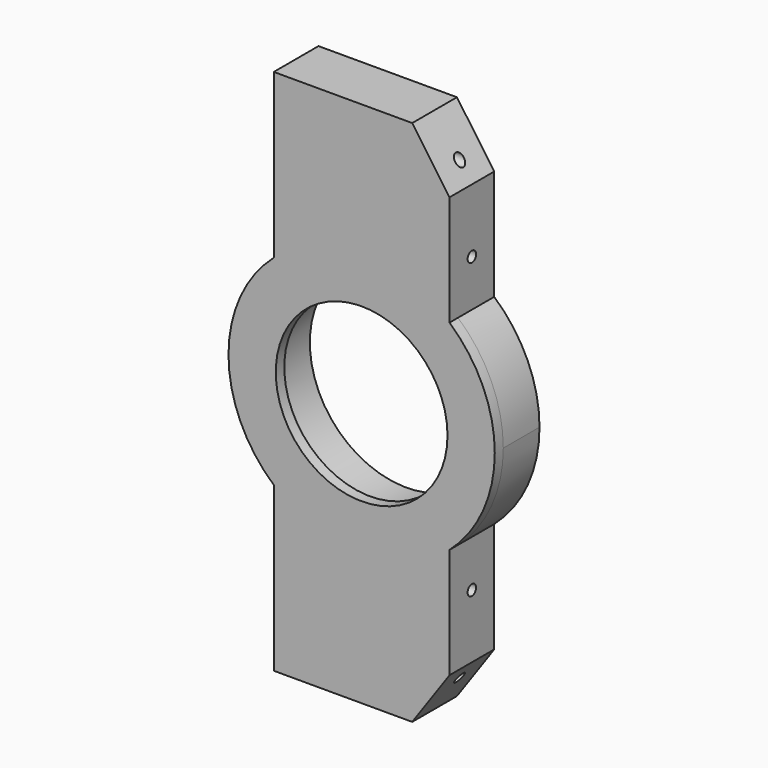
from build123d import *

# Parameters (mm, degrees)
F0_R      = 36.25
F1_DEPTH  = 17
F2_R      = 32.25
F3_DEPTH  = 4
F4_R      = 1.5
F5_DEPTH  = 15
F7_R      = 2
F8_DEPTH  = 25
F10_R     = 2
F11_DEPTH = 25
F13_DEPTH = 12


with BuildPart() as f1:
    # F0 (on Front) → F1 (new body)
    with BuildSketch(Plane.XZ):
        Circle(F0_R)
        with BuildLine():
            Line((-33, -99), (-18.995849, -99))
            Line((-18.995849, -99), (0, -99))
            Line((0, -99), (18.995849, -99))
            Line((18.995849, -99), (33, -79))
            Line((33, -79), (33, -37.56328))
            ThreePointArc((33, -37.56328), (45.552168, -20.615528), (50, 0))
            ThreePointArc((50, 0), (45.552168, 20.615528), (33, 37.56328))
            Line((33, 37.56328), (33, 79))
            Line((33, 79), (18.995849, 99))
            Line((18.995849, 99), (-18.995849, 99))
            Line((-18.995849, 99), (-33, 99))
            Line((-33, 99), (-33, 79))
            Line((-33, 79), (-33, 37.56328))
            ThreePointArc((-33, 37.56328), (-45.552168, 20.615528), (-50, 0))
            ThreePointArc((-50, 0), (-45.552168, -20.615528), (-33, -37.56328))
            Line((-33, -37.56328), (-33, -79))
            Line((-33, -79), (-33, -99))
        make_face()
        Circle(F0_R, mode=Mode.SUBTRACT)
    extrude(amount=F1_DEPTH)

    # F2 (on face) → F3 (join)
    with BuildSketch(Plane.XZ.offset(17)):
        with BuildLine():
            Line((33, -79), (33, -37.56328))
            ThreePointArc((33, -37.56328), (50, 0), (33, 37.56328))
            Line((33, 37.56328), (33, 79))
            Line((33, 79), (18.995849, 99))
            Line((18.995849, 99), (-33, 99))
            Line((-33, 99), (-33, 37.56328))
            ThreePointArc((-33, 37.56328), (-50, 0), (-33, -37.56328))
            Line((-33, -37.56328), (-33, -99))
            Line((-33, -99), (18.995849, -99))
            Line((18.995849, -99), (33, -79))
        make_face()
        Circle(F2_R, mode=Mode.SUBTRACT)
    extrude(amount=F3_DEPTH)

    # F4 (on face) → F5 (cut)
    with BuildSketch(Plane(origin=(0, 0, 0), x_dir=(-1, 0, 0), z_dir=(0, 1, 0))):
        with Locations((-18, -42.60355)):
            Circle(F4_R)
        with Locations((18, -42.60355)):
            Circle(F4_R)
        with Locations((18, -67.60355)):
            Circle(F4_R)
        with Locations((-18, -67.60355)):
            Circle(F4_R)
    extrude(amount=-F5_DEPTH, mode=Mode.SUBTRACT)

    # F7 (on offset) → F8 (cut)
    with BuildSketch(Plane.YZ.offset(21)):
        with BuildLine():
            ThreePointArc((-12.5, -85.60355), (-10.5, -87.60355), (-8.5, -85.60355))
            Line((-8.5, -85.60355), (-12.5, -85.60355))
        make_face()
        with BuildLine():
            Line((-12.5, -85.60355), (-8.5, -85.60355))
            ThreePointArc((-8.5, -85.60355), (-10.5, -83.60355), (-12.5, -85.60355))
        make_face()
        with BuildLine():
            ThreePointArc((-12.5, -55.10355), (-10.5, -57.10355), (-8.5, -55.10355))
            Line((-8.5, -55.10355), (-12.5, -55.10355))
        make_face()
        with BuildLine():
            Line((-12.5, -55.10355), (-8.5, -55.10355))
            ThreePointArc((-8.5, -55.10355), (-10.5, -53.10355), (-12.5, -55.10355))
        make_face()
        with Locations((-10.5, 55.10355)):
            Circle(F7_R)
        with Locations((-10.5, 85.60355)):
            Circle(F7_R)
    extrude(amount=F8_DEPTH, mode=Mode.SUBTRACT)

    # F10 (on offset) → F11 (cut)
    with BuildSketch(Plane.YZ.offset(-21)):
        with BuildLine():
            ThreePointArc((-12.5, -85.60355), (-10.5, -87.60355), (-8.5, -85.60355))
            Line((-8.5, -85.60355), (-12.5, -85.60355))
        make_face()
        with BuildLine():
            Line((-12.5, -85.60355), (-8.5, -85.60355))
            ThreePointArc((-8.5, -85.60355), (-10.5, -83.60355), (-12.5, -85.60355))
        make_face()
        with BuildLine():
            ThreePointArc((-12.5, -55.10355), (-10.5, -57.10355), (-8.5, -55.10355))
            Line((-8.5, -55.10355), (-12.5, -55.10355))
        make_face()
        with BuildLine():
            Line((-12.5, -55.10355), (-8.5, -55.10355))
            ThreePointArc((-8.5, -55.10355), (-10.5, -53.10355), (-12.5, -55.10355))
        make_face()
        with Locations((-10.5, 55.10355)):
            Circle(F10_R)
        with Locations((-10.5, 85.60355)):
            Circle(F10_R)
    extrude(amount=-F11_DEPTH, mode=Mode.SUBTRACT)

    # F12 (on face) → F13 (cut)
    with BuildSketch(Plane(origin=(0, 0, 0), x_dir=(-1, 0, 0), z_dir=(0, 1, 0))):
        with BuildLine():
            ThreePointArc((0, -87.25), (-2, -89.25), (0, -91.25))
            Line((0, -91.25), (0, -87.25))
        make_face()
        with BuildLine():
            Line((0, -87.25), (0, -91.25))
            ThreePointArc((0, -91.25), (1.414214, -90.664214), (2, -89.25))
            ThreePointArc((2, -89.25), (1.414214, -87.835786), (0, -87.25))
        make_face()
    extrude(amount=-F13_DEPTH, mode=Mode.SUBTRACT)


solid = f1.part
